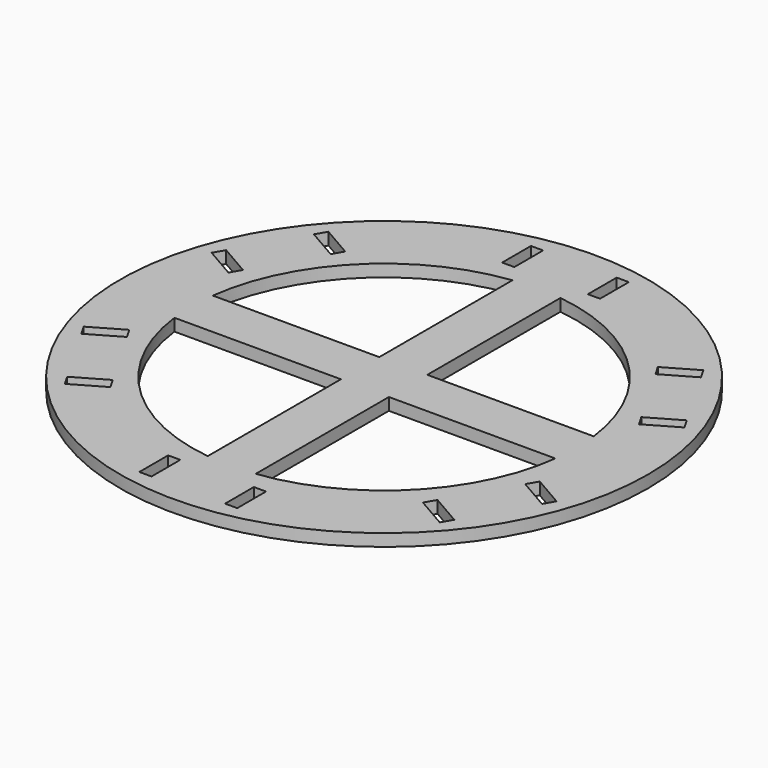
from build123d import *

# Parameters (mm, degrees)
F0_R     = 110
F0_W     = 5.08
F0_H     = 15
F1_DEPTH = 5.08


with BuildPart() as f1:
    # F0 (on Top) → F1 (new body)
    with BuildSketch(Plane.XY):
        Circle(F0_R)
        Polygon((-65.14221, -61.170382), (-78.132591, -68.670382), (-80.672591, -64.270973), (-67.68221, -56.770973), align=None, mode=Mode.SUBTRACT)
        with Locations((-17.864, -94.5)):
            Rectangle(F0_W, F0_H, mode=Mode.SUBTRACT)
        Polygon((-83.00621, -30.229027), (-95.996591, -37.729027), (-98.536591, -33.329618), (-85.54621, -25.829618), align=None, mode=Mode.SUBTRACT)
        with BuildLine():
            ThreePointArc((-10, -79.372539), (-56.568542, -56.568542), (-79.372539, -10))
            Line((-79.372539, -10), (-10, -10))
            Line((-10, -10), (-10, -79.372539))
        make_face(mode=Mode.SUBTRACT)
        with Locations((17.864, -94.5)):
            Rectangle(F0_W, F0_H, mode=Mode.SUBTRACT)
        Polygon((67.68221, -56.770973), (80.672591, -64.270973), (78.132591, -68.670382), (65.14221, -61.170382), align=None, mode=Mode.SUBTRACT)
        with BuildLine():
            ThreePointArc((79.372539, -10), (56.568542, -56.568542), (10, -79.372539))
            Line((10, -79.372539), (10, -10))
            Line((10, -10), (79.372539, -10))
        make_face(mode=Mode.SUBTRACT)
        Polygon((85.54621, -25.829618), (98.536591, -33.329618), (95.996591, -37.729027), (83.00621, -30.229027), align=None, mode=Mode.SUBTRACT)
        Polygon((-85.54621, 25.829618), (-98.536591, 33.329618), (-95.996591, 37.729027), (-83.00621, 30.229027), align=None, mode=Mode.SUBTRACT)
        with BuildLine():
            ThreePointArc((-79.372539, 10), (-56.568542, 56.568542), (-10, 79.372539))
            Line((-10, 79.372539), (-10, 10))
            Line((-10, 10), (-79.372539, 10))
        make_face(mode=Mode.SUBTRACT)
        Polygon((-67.68221, 56.770973), (-80.672591, 64.270973), (-78.132591, 68.670382), (-65.14221, 61.170382), align=None, mode=Mode.SUBTRACT)
        with Locations((-17.864, 94.5)):
            Rectangle(F0_W, F0_H, mode=Mode.SUBTRACT)
        with BuildLine():
            Line((10, 10), (10, 79.372539))
            ThreePointArc((10, 79.372539), (56.568542, 56.568542), (79.372539, 10))
            Line((79.372539, 10), (10, 10))
        make_face(mode=Mode.SUBTRACT)
        Polygon((83.00621, 30.229027), (95.996591, 37.729027), (98.536591, 33.329618), (85.54621, 25.829618), align=None, mode=Mode.SUBTRACT)
        with Locations((17.864, 94.5)):
            Rectangle(F0_W, F0_H, mode=Mode.SUBTRACT)
        Polygon((65.14221, 61.170382), (78.132591, 68.670382), (80.672591, 64.270973), (67.68221, 56.770973), align=None, mode=Mode.SUBTRACT)
    extrude(amount=F1_DEPTH)


solid = f1.part
